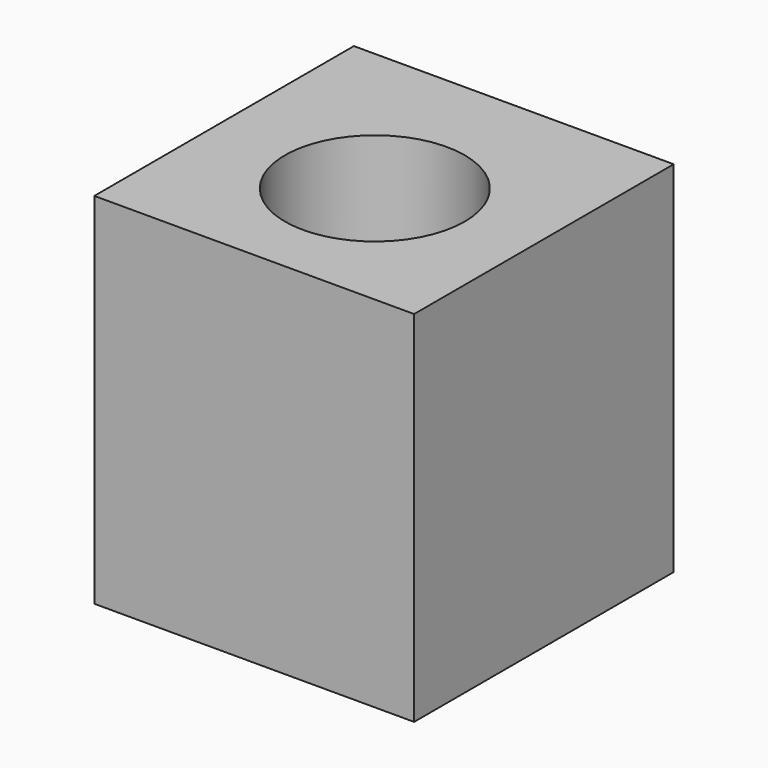
from build123d import *

# Parameters (mm, degrees)
F0_W     = 61.533649
F0_H     = 62.427957
F0_R     = 17.292994
F1_DEPTH = 34.544


with BuildPart() as f1:
    # F0 (on Top) → F1 (new body, symmetric)
    with BuildSketch(Plane.XY):
        with Locations((-30.766824, 31.213978)):
            Rectangle(F0_W, F0_H)
        with Locations((-30.149167, 28.23781)):
            Circle(F0_R, mode=Mode.SUBTRACT)
    extrude(amount=F1_DEPTH, both=True)


solid = f1.part
